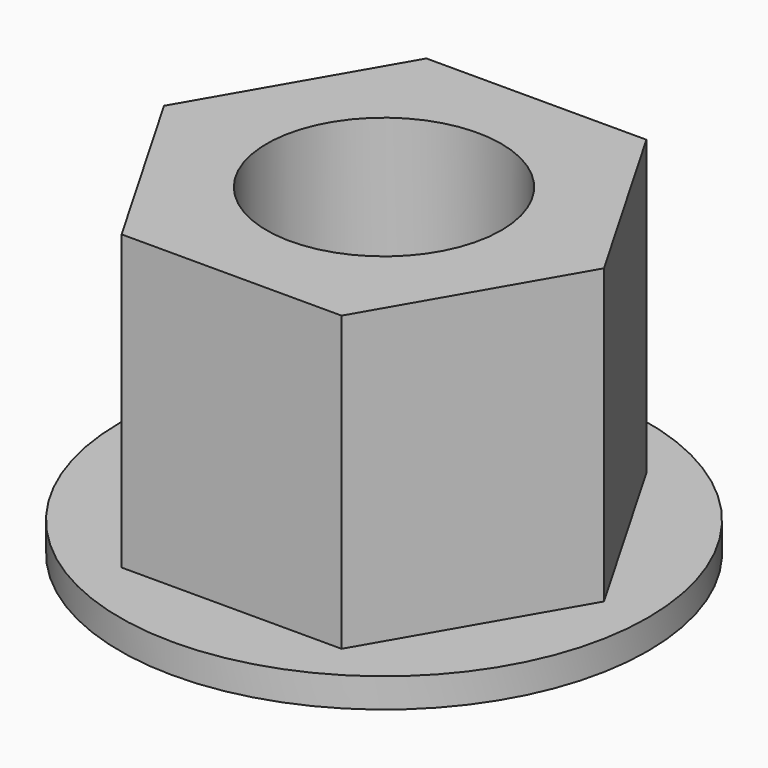
from build123d import *

# Parameters (mm, degrees)
SKETCH_R     = 18
PAD_DEPTH    = 2
PAD001_DEPTH = 20
SKETCH002_R  = 8
POCKET_DEPTH = 22


with BuildPart() as part:
    # Sketch → Pad (new body)
    with BuildSketch(Plane.XY):
        Circle(SKETCH_R)
    extrude(amount=PAD_DEPTH)

    # Sketch001 (on Face3 of Pad) → Pad001 (join)
    with BuildSketch(Plane.XY.offset(2)):
        Polygon((15, 0), (7.5, 12.990381), (-7.5, 12.990381), (-15, 0), (-7.5, -12.990381), (7.5, -12.990381), align=None)
    extrude(amount=PAD001_DEPTH)

    # Sketch002 (on Face10 of Pad001) → Pocket (cut)
    with BuildSketch(Plane.XY.offset(22)):
        Circle(SKETCH002_R)
    extrude(amount=-POCKET_DEPTH, mode=Mode.SUBTRACT)


solid = part.part
